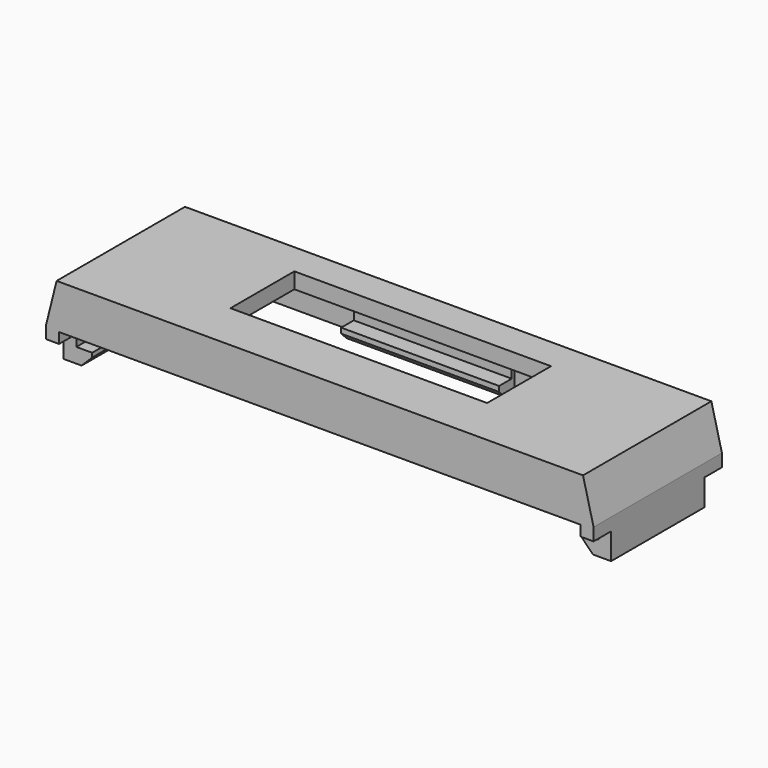
from build123d import *

# Parameters (mm, degrees)
SKETCH_W         = 52
SKETCH_H         = 15.24
PAD_DEPTH        = 5.2
CHAMFER_SIZE2    = 1
CHAMFER_SIZE     = 4
CHAMFER001_SIZE2 = 4
CHAMFER001_SIZE  = 1
SKETCH001_W      = 49.53
SKETCH001_H      = 12.24
POCKET_DEPTH     = 3.7
SKETCH002_W      = 1.21
SKETCH002_H      = 11.076
PAD001_DEPTH     = 2.5
SKETCH003_W      = 11.076
SKETCH003_H      = 1.4
PAD002_DEPTH     = 1.5
CHAMFER002_SIZE  = 1
SKETCH004_W      = 11.076
SKETCH004_H      = 1.4
PAD003_DEPTH     = 1.5
CHAMFER003_SIZE  = 1
SKETCH005_W      = 24.38
SKETCH005_H      = 7.58
POCKET001_DEPTH  = 1.5
SKETCH006_W      = 15
SKETCH006_H      = 1.5
PAD004_DEPTH     = 3.06
SKETCH007_W      = 1.5
SKETCH007_H      = 13
PAD005_DEPTH     = 1
SKETCH008_W      = 15
SKETCH008_H      = 1.5
PAD006_DEPTH     = 1.5
CHAMFER004_SIZE  = 1
SKETCH009_W      = 15
SKETCH009_H      = 1.5
PAD007_DEPTH     = 1.5
CHAMFER005_SIZE  = 1
SKETCH010_W      = 49.53
SKETCH010_H      = 15.24
POCKET002_DEPTH  = 1


with BuildPart() as part:
    # Sketch → Pad (new body)
    with BuildSketch(Plane.XY):
        Rectangle(SKETCH_W, SKETCH_H)
    extrude(amount=PAD_DEPTH)

    # Chamfer
    chamfer_edges = [part.edges().sort_by_distance(p)[0] for p in [
        (26, 0, 5.2),
    ]]
    chamfer_side = part.faces().sort_by_distance((26, 0, 2.6))[0]
    chamfer(chamfer_edges, length=CHAMFER_SIZE, length2=CHAMFER_SIZE2, reference=chamfer_side)

    # Chamfer001
    chamfer001_edges = [part.edges().sort_by_distance(p)[0] for p in [
        (-26, 0, 5.2),
    ]]
    chamfer001_side = part.faces().sort_by_distance((-0.5, 0, 5.2))[0]
    chamfer(chamfer001_edges, length=CHAMFER001_SIZE, length2=CHAMFER001_SIZE2, reference=chamfer001_side)

    # Sketch001 (on Face7 of Chamfer001) → Pocket (cut)
    with BuildSketch(Plane(origin=(0, 0, 0), x_dir=(1, 0, 0), z_dir=(0, 0, -1))):
        Rectangle(SKETCH001_W, SKETCH001_H)
    extrude(amount=-POCKET_DEPTH, mode=Mode.SUBTRACT)

    # Sketch002 (on Face7 of Pocket) → Pad001 (join)
    with BuildSketch(Plane(origin=(0, 0, 0), x_dir=(1, 0, 0), z_dir=(0, 0, -1))):
        with Locations((-25.395, 0)):
            Rectangle(SKETCH002_W, SKETCH002_H)
        with Locations((25.395, 0)):
            Rectangle(SKETCH002_W, SKETCH002_H)
    extrude(amount=PAD001_DEPTH)

    # Sketch003 (on Face15 of Pad001) → Pad002 (join)
    with BuildSketch(Plane.YZ.offset(-24.79)):
        with Locations((0, -1.8)):
            Rectangle(SKETCH003_W, SKETCH003_H)
    extrude(amount=PAD002_DEPTH)

    # Chamfer002
    chamfer002_edges = [part.edges().sort_by_distance(p)[0] for p in [
        (-23.29, 0, -2.5),
    ]]
    chamfer(chamfer002_edges, length=CHAMFER002_SIZE)

    # Sketch004 (on Face17 of Chamfer002) → Pad003 (join)
    with BuildSketch(Plane(origin=(24.79, 0, 0), x_dir=(0, -1, 0), z_dir=(-1, 0, 0))):
        with Locations((0, -1.8)):
            Rectangle(SKETCH004_W, SKETCH004_H)
    extrude(amount=PAD003_DEPTH)

    # Chamfer003
    chamfer003_edges = [part.edges().sort_by_distance(p)[0] for p in [
        (23.29, 0, -2.5),
    ]]
    chamfer(chamfer003_edges, length=CHAMFER003_SIZE)

    # Sketch005 (on Face25 of Chamfer003) → Pocket001 (cut)
    with BuildSketch(Plane.XY.offset(5.2)):
        with Locations((0, 0.8)):
            Rectangle(SKETCH005_W, SKETCH005_H)
    extrude(amount=-POCKET001_DEPTH, mode=Mode.SUBTRACT)

    # Sketch006 (on Face32 of Pocket001) → Pad004 (join)
    with BuildSketch(Plane(origin=(0, 0, 3.7), x_dir=(1, 0, 0), z_dir=(0, 0, -1))):
        with Locations((0, 6.66)):
            Rectangle(SKETCH006_W, SKETCH006_H)
        with Locations((0, -6.54)):
            Rectangle(SKETCH006_W, SKETCH006_H)
    extrude(amount=PAD004_DEPTH)

    # Sketch007 (on Face32 of Pad004) → Pad005 (join)
    with BuildSketch(Plane(origin=(0, 0, 3.7), x_dir=(1, 0, 0), z_dir=(0, 0, -1))):
        with Locations((14.04, 0)):
            Rectangle(SKETCH007_W, SKETCH007_H)
    extrude(amount=PAD005_DEPTH)

    # Sketch008 (on Face51 of Pad005) → Pad006 (join)
    with BuildSketch(Plane(origin=(0, -5.91, 0), x_dir=(-1, 0, 0), z_dir=(0, 1, 0))):
        with Locations((0, 1.39)):
            Rectangle(SKETCH008_W, SKETCH008_H)
    extrude(amount=PAD006_DEPTH)

    # Chamfer004
    chamfer004_edges = [part.edges().sort_by_distance(p)[0] for p in [
        (0, -4.41, 0.64),
    ]]
    chamfer(chamfer004_edges, length=CHAMFER004_SIZE)

    # Sketch009 (on Face15 of Chamfer004) → Pad007 (join)
    with BuildSketch(Plane.XZ.offset(-5.79)):
        with Locations((0, 1.39)):
            Rectangle(SKETCH009_W, SKETCH009_H)
    extrude(amount=PAD007_DEPTH)

    # Chamfer005
    chamfer005_edges = [part.edges().sort_by_distance(p)[0] for p in [
        (0, 4.29, 0.64),
    ]]
    chamfer(chamfer005_edges, length=CHAMFER005_SIZE)

    # Sketch010 → Pocket002 (cut)
    with BuildSketch(Plane.XY):
        Rectangle(SKETCH010_W, SKETCH010_H)
    extrude(amount=POCKET002_DEPTH, mode=Mode.SUBTRACT)


solid = part.part
